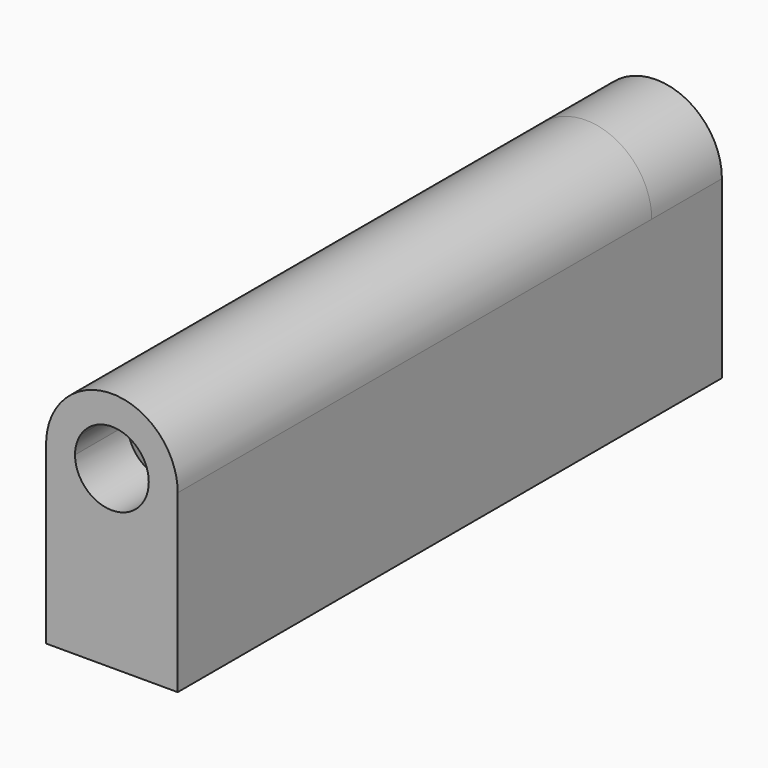
from build123d import *

# Parameters (mm, degrees)
F1_DEPTH = 19.05
F2_DEPTH = 152.4
F3_R     = 10.668
F3_R_2   = 5.08
F4_DEPTH = 25.4


with BuildPart() as f1:
    # F0 (on Front) → F1 (new body)
    with BuildSketch(Plane.XZ):
        with BuildLine():
            Line((19.05, -50.8), (19.05, 0))
            ThreePointArc((19.05, 0), (18.8393338746, 2.8252432042), (18.2119948386, 5.588))
            Line((18.2119948386, 5.588), (10.668, 5.588))
            Line((10.668, 5.588), (10.668, 0))
            Line((10.668, 0), (10.668, -50.8))
            Line((10.668, -50.8), (19.05, -50.8))
        make_face()
        with BuildLine():
            Line((10.668, 5.588), (18.2119948386, 5.588))
            ThreePointArc((18.2119948386, 5.588), (0, 19.05), (-18.2119948386, 5.588))
            Line((-18.2119948386, 5.588), (-10.668, 5.588))
            Line((-10.668, 5.588), (-9.0873802606, 5.588))
            ThreePointArc((-9.0873802606, 5.588), (0, 10.668), (9.0873802606, 5.588))
            Line((9.0873802606, 5.588), (10.668, 5.588))
        make_face()
        with BuildLine():
            Line((-10.668, 5.588), (-18.2119948386, 5.588))
            ThreePointArc((-18.2119948386, 5.588), (-18.8393338746, 2.8252432042), (-19.05, 0))
            Line((-19.05, 0), (-19.05, -50.8))
            Line((-19.05, -50.8), (-10.668, -50.8))
            Line((-10.668, -50.8), (-10.668, 0))
            Line((-10.668, 0), (-10.668, 5.588))
        make_face()
        with BuildLine():
            Line((10.668, 5.588), (18.2119948386, 5.588))
            ThreePointArc((18.2119948386, 5.588), (0, 19.05), (-18.2119948386, 5.588))
            Line((-18.2119948386, 5.588), (-10.668, 5.588))
            Line((-10.668, 5.588), (-9.0873802606, 5.588))
            ThreePointArc((-9.0873802606, 5.588), (0, 10.668), (9.0873802606, 5.588))
            Line((9.0873802606, 5.588), (10.668, 5.588))
        make_face()
        with BuildLine():
            Line((-10.668, -50.8), (10.668, -50.8))
            Line((10.668, -50.8), (10.668, 0))
            ThreePointArc((10.668, 0), (0, -10.668), (-10.668, 0))
            Line((-10.668, 0), (-10.668, -50.8))
        make_face()
        with BuildLine():
            Line((10.668, 0), (10.668, 5.588))
            Line((10.668, 5.588), (9.0873802606, 5.588))
            ThreePointArc((9.0873802606, 5.588), (10.2652422431, 2.9036228561), (10.668, 0))
        make_face()
        with BuildLine():
            Line((-9.0873802606, 5.588), (-10.668, 5.588))
            Line((-10.668, 5.588), (-10.668, 0))
            ThreePointArc((-10.668, 0), (-10.2652422431, 2.9036228561), (-9.0873802606, 5.588))
        make_face()
    extrude(amount=F1_DEPTH)

    # F0 (on Front) → F2 (join)
    with BuildSketch(Plane.XZ):
        with BuildLine():
            Line((19.05, -50.8), (19.05, 0))
            ThreePointArc((19.05, 0), (18.8393338746, 2.8252432042), (18.2119948386, 5.588))
            Line((18.2119948386, 5.588), (10.668, 5.588))
            Line((10.668, 5.588), (10.668, 0))
            Line((10.668, 0), (10.668, -50.8))
            Line((10.668, -50.8), (19.05, -50.8))
        make_face()
        with BuildLine():
            Line((10.668, 5.588), (18.2119948386, 5.588))
            ThreePointArc((18.2119948386, 5.588), (0, 19.05), (-18.2119948386, 5.588))
            Line((-18.2119948386, 5.588), (-10.668, 5.588))
            Line((-10.668, 5.588), (-9.0873802606, 5.588))
            ThreePointArc((-9.0873802606, 5.588), (0, 10.668), (9.0873802606, 5.588))
            Line((9.0873802606, 5.588), (10.668, 5.588))
        make_face()
        with BuildLine():
            Line((-10.668, 5.588), (-18.2119948386, 5.588))
            ThreePointArc((-18.2119948386, 5.588), (-18.8393338746, 2.8252432042), (-19.05, 0))
            Line((-19.05, 0), (-19.05, -50.8))
            Line((-19.05, -50.8), (-10.668, -50.8))
            Line((-10.668, -50.8), (-10.668, 0))
            Line((-10.668, 0), (-10.668, 5.588))
        make_face()
    extrude(amount=-F2_DEPTH)

    # F3 (on face) → F4 (join)
    with BuildSketch(Plane(origin=(0, 152.4, 0), x_dir=(-1, 0, 0), z_dir=(0, 1, 0))):
        with BuildLine():
            ThreePointArc((19.05, 0), (0, 19.05), (-19.05, 0))
            Line((-19.05, 0), (-19.05, -50.8))
            Line((-19.05, -50.8), (19.05, -50.8))
            Line((19.05, -50.8), (19.05, 0))
        make_face()
        Circle(F3_R, mode=Mode.SUBTRACT)
        with BuildLine():
            ThreePointArc((-9.0873802606, 5.588), (-10.2652422431, 2.903622856), (-10.668, -1e-10))
            ThreePointArc((-10.668, -1e-10), (0, -10.668), (10.668, 0))
            ThreePointArc((10.668, 0), (10.2652422431, 2.9036228561), (9.0873802606, 5.588))
            ThreePointArc((9.0873802606, 5.588), (0, 10.668), (-9.0873802606, 5.588))
        make_face()
        Circle(F3_R_2, mode=Mode.SUBTRACT)
    extrude(amount=F4_DEPTH)


solid = f1.part
